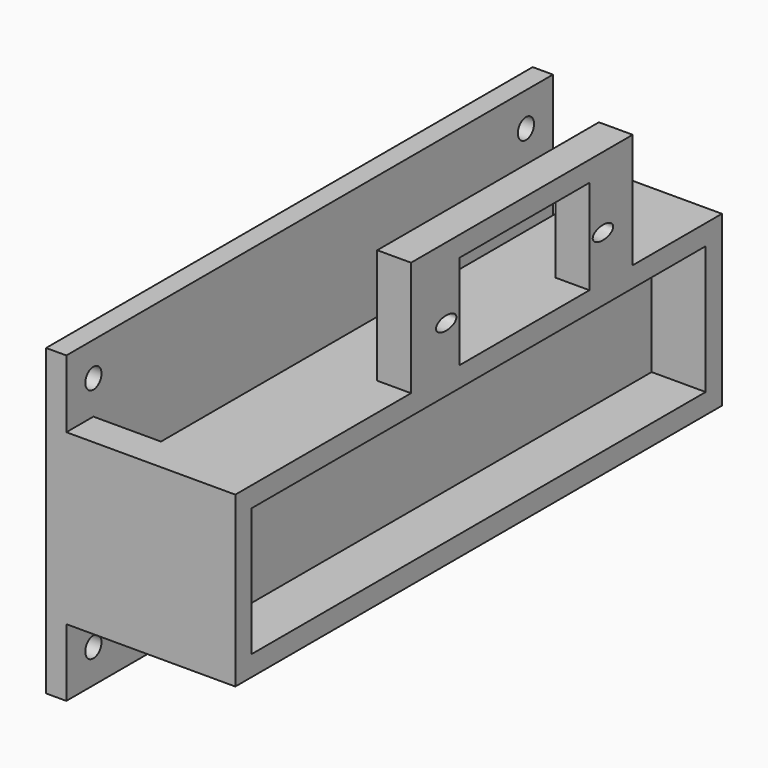
from build123d import *

# Parameters (mm, degrees)
SKETCH005_W                               = 24
SKETCH005_H                               = 14
EXTRUDE006_DEPTH                          = 10
EXTRUDE007_DEPTH                          = 10
EXTRUDE005_DEPTH                          = 10
SKETCH004_W                               = 5
SKETCH004_H                               = 41
EXTRUDE004_DEPTH                          = 17
SKETCH003_AS_DRAWN_R                      = 1.5
EXTRUDE003_DEPTH                          = 5
EXTRUDE003_ONTO_SKETCH003_ROLL_ANGLE      = -90
EXTRUDE003_ONTO_SKETCH003_PITCH_ANGLE     = -89.903691
EXTRUDE003_ONTO_SKETCH003_PLACEMENT_ANGLE = -90
SKETCH002_W                               = 84
SKETCH002_H                               = 19
EXTRUDE002_DEPTH                          = 8
SKETCH001_W                               = 10
SKETCH001_H                               = 85
EXTRUDE001_DEPTH                          = 22.5
EXTRUDE_DEPTH                             = 90


with BuildPart() as extrude006:
    # Sketch005 (on Face18 of Fusion) → Extrude006 (new body)
    with BuildSketch(Plane(origin=(23, 0, 0), x_dir=(0, -1, 0), z_dir=(-1, 0, 0))):
        with Locations((-53.5, 42)):
            Rectangle(SKETCH005_W, SKETCH005_H)
        with BuildLine():
            add(Edge.make_bspline(
                [(-66.107143, 41.5), (-66.107143, 43.232051), (-68.946429, 42.366025), (-71.785714, 41.5), (-68.946429, 40.633975), (-66.107143, 39.767949), (-66.107143, 41.5)],
                knots=[0, 0, 0, 2.094395, 2.094395, 4.18879, 4.18879, 6.283185, 6.283185, 6.283185], degree=2, weights=[1, 0.5, 1, 0.5, 1, 0.5, 1]))
        make_face()
        with BuildLine():
            add(Edge.make_bspline(
                [(-37.107143, 41.5), (-37.107143, 43.232051), (-39.946429, 42.366025), (-42.785714, 41.5), (-39.946429, 40.633975), (-37.107143, 39.767949), (-37.107143, 41.5)],
                knots=[0, 0, 0, 2.094395, 2.094395, 4.18879, 4.18879, 6.283185, 6.283185, 6.283185], degree=2, weights=[1, 0.5, 1, 0.5, 1, 0.5, 1]))
        make_face()
    extrude(amount=-EXTRUDE006_DEPTH)


with BuildPart() as extrude007:
    # Sketch005 (on Face18 of Fusion) → Extrude007 (new body)
    with BuildSketch(Plane(origin=(23, 0, 0), x_dir=(0, -1, 0), z_dir=(-1, 0, 0))):
        with Locations((-53.5, 42)):
            Rectangle(SKETCH005_W, SKETCH005_H)
        with BuildLine():
            add(Edge.make_bspline(
                [(-66.107143, 41.5), (-66.107143, 43.232051), (-68.946429, 42.366025), (-71.785714, 41.5), (-68.946429, 40.633975), (-66.107143, 39.767949), (-66.107143, 41.5)],
                knots=[0, 0, 0, 2.094395, 2.094395, 4.18879, 4.18879, 6.283185, 6.283185, 6.283185], degree=2, weights=[1, 0.5, 1, 0.5, 1, 0.5, 1]))
        make_face()
        with BuildLine():
            add(Edge.make_bspline(
                [(-37.107143, 41.5), (-37.107143, 43.232051), (-39.946429, 42.366025), (-42.785714, 41.5), (-39.946429, 40.633975), (-37.107143, 39.767949), (-37.107143, 41.5)],
                knots=[0, 0, 0, 2.094395, 2.094395, 4.18879, 4.18879, 6.283185, 6.283185, 6.283185], degree=2, weights=[1, 0.5, 1, 0.5, 1, 0.5, 1]))
        make_face()
    extrude(amount=-EXTRUDE007_DEPTH)


with BuildPart() as motor_cavity:
    # Sketch005 (on Face18 of Fusion) → Extrude005 (new body)
    with BuildSketch(Plane(origin=(23, 0, 0), x_dir=(0, -1, 0), z_dir=(-1, 0, 0))):
        with Locations((-53.5, 42)):
            Rectangle(SKETCH005_W, SKETCH005_H)
        with BuildLine():
            add(Edge.make_bspline(
                [(-66.107143, 41.5), (-66.107143, 43.232051), (-68.946429, 42.366025), (-71.785714, 41.5), (-68.946429, 40.633975), (-66.107143, 39.767949), (-66.107143, 41.5)],
                knots=[0, 0, 0, 2.094395, 2.094395, 4.18879, 4.18879, 6.283185, 6.283185, 6.283185], degree=2, weights=[1, 0.5, 1, 0.5, 1, 0.5, 1]))
        make_face()
        with BuildLine():
            add(Edge.make_bspline(
                [(-37.107143, 41.5), (-37.107143, 43.232051), (-39.946429, 42.366025), (-42.785714, 41.5), (-39.946429, 40.633975), (-37.107143, 39.767949), (-37.107143, 41.5)],
                knots=[0, 0, 0, 2.094395, 2.094395, 4.18879, 4.18879, 6.283185, 6.283185, 6.283185], degree=2, weights=[1, 0.5, 1, 0.5, 1, 0.5, 1]))
        make_face()
    extrude(amount=-EXTRUDE005_DEPTH)

    # Fusion001: union Extrude006, Extrude007
    add(extrude006.part)
    add(extrude007.part)


with BuildPart() as motor_holder:
    # Sketch004 (on Face12 of Cut002) → Extrude004 (new body)
    with BuildSketch(Plane.XY.offset(35)):
        with Locations((25.5, 53)):
            Rectangle(SKETCH004_W, SKETCH004_H)
    extrude(amount=EXTRUDE004_DEPTH)


with BuildPart() as screw_holes:
    # Sketch003 as drawn → Extrude003 (new)
    with BuildSketch(Plane.XY):
        with Locations((16.786752, -38.744592)):
            Circle(SKETCH003_AS_DRAWN_R)
        with Locations((-18.213177, -38.677355)):
            Circle(SKETCH003_AS_DRAWN_R)
        with Locations((16.92963, 41.255274)):
            Circle(SKETCH003_AS_DRAWN_R)
        with Locations((-18.0703, 41.32251)):
            Circle(SKETCH003_AS_DRAWN_R)
    extrude(amount=-EXTRUDE003_DEPTH)


with BuildPart() as screw_holes_1:
    # Extrude003 onto Sketch003 roll: moved
    add(screw_holes.part.rotate(Axis((0, 0, 0), (1, 0, 0)), EXTRUDE003_ONTO_SKETCH003_ROLL_ANGLE))


with BuildPart() as screw_holes_2:
    # Extrude003 onto Sketch003 pitch: moved
    add(screw_holes_1.part.rotate(Axis((0, 0, 0), (0, 1, 0)), EXTRUDE003_ONTO_SKETCH003_PITCH_ANGLE))


with BuildPart() as screw_holes_3:
    # Extrude003 onto Sketch003 placement: moved
    add(screw_holes_2.part.moved(Location((3, 46.287879, 23.143939))).rotate(Axis((3, 46.287879, 23.143939), (0, 0, 1)), EXTRUDE003_ONTO_SKETCH003_PLACEMENT_ANGLE))


with BuildPart() as cavity:
    # Sketch002 (on Face8 of Cut) → Extrude002 (new body)
    with BuildSketch(Plane.YZ.offset(28)):
        with Locations((45, 22.5)):
            Rectangle(SKETCH002_W, SKETCH002_H)
    extrude(amount=-EXTRUDE002_DEPTH)


with BuildPart() as lock_hole:
    # Sketch001 (on Face4 of Extrude) → Extrude001 (new body)
    with BuildSketch(Plane.XY.offset(35)):
        with Locations((8, 47.5)):
            Rectangle(SKETCH001_W, SKETCH001_H)
    extrude(amount=-EXTRUDE001_DEPTH)


with BuildPart() as cut003:
    # Sketch → Extrude (new body)
    with BuildSketch(Plane.XZ):
        Polygon((0, 0), (0, 45), (3, 45), (3, 35), (28, 35), (28, 10), (3, 10), (3, 0), align=None)
    extrude(amount=-EXTRUDE_DEPTH)

    # Cut: cut lock hole
    add(lock_hole.part, mode=Mode.SUBTRACT)

    # Cut001: cut cavity
    add(cavity.part, mode=Mode.SUBTRACT)

    # Cut002: cut screw holes
    add(screw_holes_3.part, mode=Mode.SUBTRACT)

    # Fusion: union motor holder
    add(motor_holder.part)

    # Cut003: cut motor cavity
    add(motor_cavity.part, mode=Mode.SUBTRACT)


solid = cut003.part
